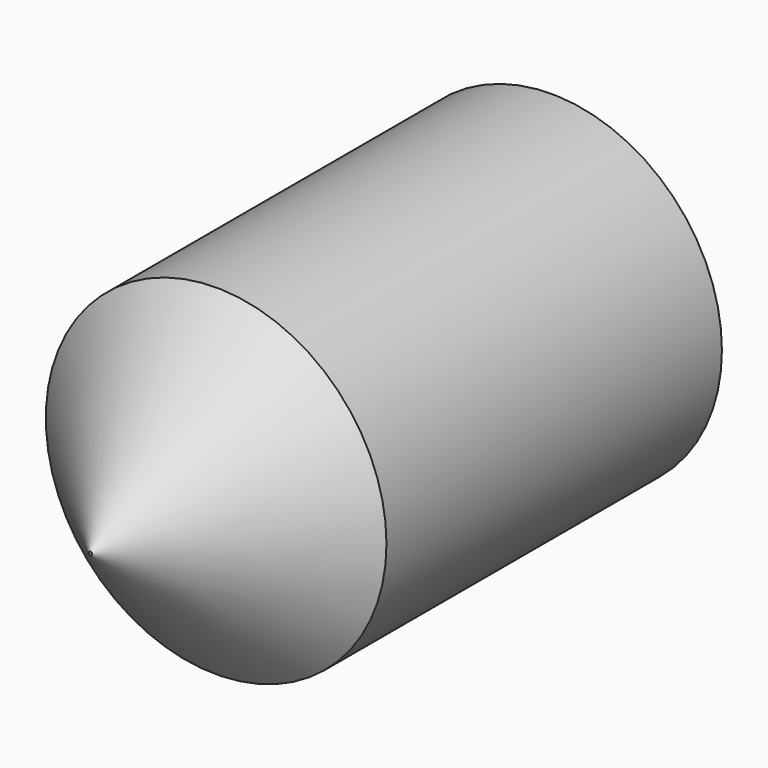
from build123d import *

# Parameters (mm, degrees)
SKETCH033_R     = 9.75
PAD021_DEPTH    = 9
PAD021_TAPER    = 47
SKETCH034_R     = 9.75
PAD022_DEPTH    = 24
SKETCH035_R     = 2.5
POCKET008_DEPTH = 10


with BuildPart() as part:
    # Sketch033 → Pad021 (new body)
    with BuildSketch(Plane.XZ.offset(-20)):
        with Locations((0, -60)):
            Circle(SKETCH033_R)
    extrude(amount=PAD021_DEPTH, taper=PAD021_TAPER)

    # Sketch034 → Pad022 (join)
    with BuildSketch(Plane.XZ.offset(-20)):
        with Locations((0, -60)):
            Circle(SKETCH034_R)
    extrude(amount=-PAD022_DEPTH)

    # Sketch035 → Pocket008 (cut)
    with BuildSketch(Plane.XZ.offset(-44)):
        with Locations((-3.75, -56.25)):
            Circle(SKETCH035_R)
        with Locations((3.75, -56.25)):
            Circle(SKETCH035_R)
        with Locations((3.75, -63.75)):
            Circle(SKETCH035_R)
        with Locations((-3.75, -63.75)):
            Circle(SKETCH035_R)
        with Locations((0, -60)):
            Circle(SKETCH035_R)
    extrude(amount=POCKET008_DEPTH, mode=Mode.SUBTRACT)


solid = part.part
